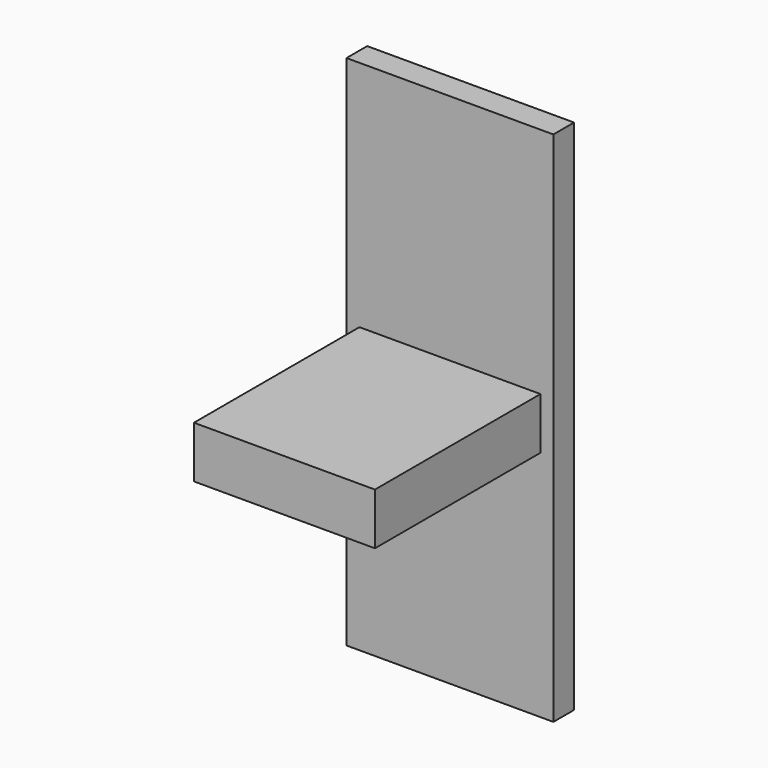
from build123d import *

# Parameters (mm, degrees)
F0_W     = 50.8
F0_H     = 127
F1_DEPTH = 6.35
F3_W     = 44.45
F3_H     = 12.7
F4_DEPTH = 50.8


with BuildPart() as f1:
    # F0 (on Front) → F1 (new body)
    with BuildSketch(Plane.XZ):
        Rectangle(F0_W, F0_H)
    extrude(amount=F1_DEPTH)

    # F3 (on face) → F4 (join)
    with BuildSketch(Plane.XZ.offset(6.35)):
        Rectangle(F3_W, F3_H)
    extrude(amount=F4_DEPTH)


solid = f1.part
